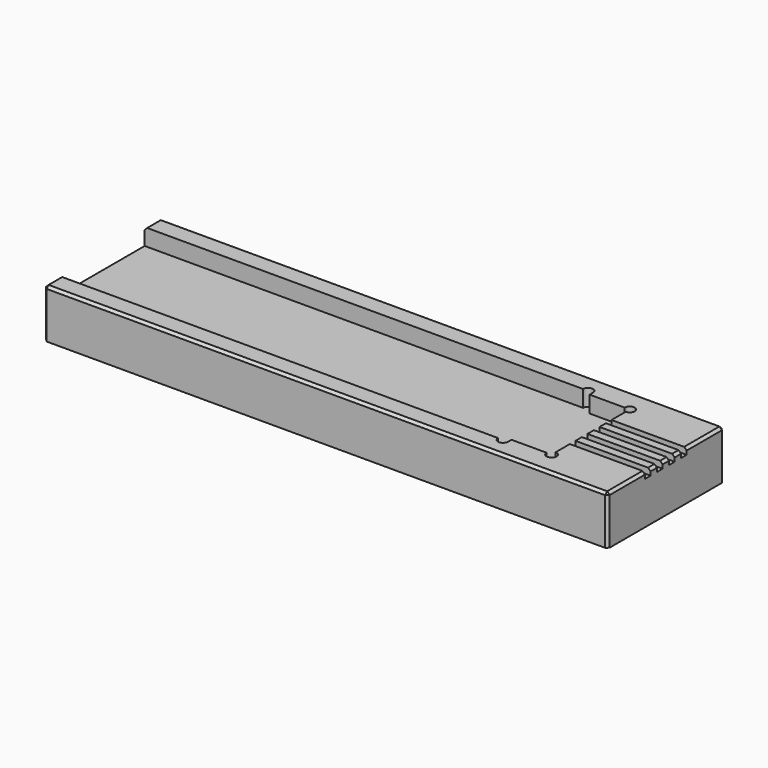
from build123d import *

# Parameters (mm, degrees)
F0_W     = 15
F0_H     = 1.4
F0_H_2   = 1.6
F1_DEPTH = 9.75
F2_SIZE  = 0.5
F3_DEPTH = 3.32
F4_DEPTH = 1.25


with BuildPart() as f1:
    # F0 (on Top) → F1 (new body)
    with BuildSketch(Plane.XY):
        with Locations((62.019782, 3.047612)):
            Rectangle(F0_W, F0_H)
        with Locations((62.019782, 6.047612)):
            Rectangle(F0_W, F0_H)
        with Locations((62.019782, 0.047612)):
            Rectangle(F0_W, F0_H)
        with Locations((62.019782, 9.047612)):
            Rectangle(F0_W, F0_H)
        with Locations((62.019782, 4.547612)):
            Rectangle(F0_W, F0_H_2)
        with Locations((62.019782, 1.547612)):
            Rectangle(F0_W, F0_H_2)
        with Locations((62.019782, 7.547612)):
            Rectangle(F0_W, F0_H_2)
        with BuildLine():
            Line((44.519782, 15.147612), (-42.980218, 15.147612))
            Line((-42.980218, 15.147612), (-42.980218, -6.052388))
            Line((-42.980218, -6.052388), (44.519782, -6.052388))
            Line((44.519782, -6.052388), (46.519782, -6.052388))
            Line((46.519782, -6.052388), (46.519782, -5.202388))
            Line((46.519782, -5.202388), (53.519782, -5.202388))
            ThreePointArc((53.519782, -5.202388), (53.812675, -4.495281), (54.519782, -4.202388))
            Line((54.519782, -4.202388), (54.519782, -0.652388))
            Line((54.519782, -0.652388), (54.519782, 0.747612))
            Line((54.519782, 0.747612), (54.519782, 2.347612))
            Line((54.519782, 2.347612), (54.519782, 3.747612))
            Line((54.519782, 3.747612), (54.519782, 5.347612))
            Line((54.519782, 5.347612), (54.519782, 6.747612))
            Line((54.519782, 6.747612), (54.519782, 8.347612))
            Line((54.519782, 8.347612), (54.519782, 9.747612))
            Line((54.519782, 9.747612), (54.519782, 13.297612))
            ThreePointArc((54.519782, 13.297612), (53.812675, 13.590505), (53.519782, 14.297612))
            Line((53.519782, 14.297612), (46.519782, 14.297612))
            Line((46.519782, 14.297612), (46.519782, 15.147612))
            Line((46.519782, 15.147612), (44.519782, 15.147612))
        make_face()
        with BuildLine():
            Line((46.519782, -6.052388), (44.519782, -6.052388))
            ThreePointArc((44.519782, -6.052388), (45.519782, -7.052388), (46.519782, -6.052388))
        make_face()
        with BuildLine():
            ThreePointArc((46.519782, 15.147612), (45.519782, 16.147612), (44.519782, 15.147612))
            Line((44.519782, 15.147612), (46.519782, 15.147612))
        make_face()
        with BuildLine():
            Line((69.519782, 19.047612), (-42.980218, 19.047612))
            Line((-42.980218, 19.047612), (-42.980218, 15.147612))
            Line((-42.980218, 15.147612), (44.519782, 15.147612))
            ThreePointArc((44.519782, 15.147612), (45.519782, 16.147612), (46.519782, 15.147612))
            Line((46.519782, 15.147612), (46.519782, 14.297612))
            Line((46.519782, 14.297612), (53.519782, 14.297612))
            ThreePointArc((53.519782, 14.297612), (54.519782, 15.297612), (55.519782, 14.297612))
            ThreePointArc((55.519782, 14.297612), (55.226889, 13.590505), (54.519782, 13.297612))
            Line((54.519782, 13.297612), (54.519782, 9.747612))
            Line((54.519782, 9.747612), (69.519782, 9.747612))
            Line((69.519782, 9.747612), (69.519782, 19.047612))
        make_face()
        with BuildLine():
            Line((44.519782, -6.052388), (-42.980218, -6.052388))
            Line((-42.980218, -6.052388), (-42.980218, -9.952388))
            Line((-42.980218, -9.952388), (69.519782, -9.952388))
            Line((69.519782, -9.952388), (69.519782, -0.652388))
            Line((69.519782, -0.652388), (54.519782, -0.652388))
            Line((54.519782, -0.652388), (54.519782, -4.202388))
            ThreePointArc((54.519782, -4.202388), (55.226889, -4.495281), (55.519782, -5.202388))
            ThreePointArc((55.519782, -5.202388), (54.519782, -6.202388), (53.519782, -5.202388))
            Line((53.519782, -5.202388), (46.519782, -5.202388))
            Line((46.519782, -5.202388), (46.519782, -6.052388))
            ThreePointArc((46.519782, -6.052388), (45.519782, -7.052388), (44.519782, -6.052388))
        make_face()
        with BuildLine():
            Line((54.519782, -5.202388), (53.519782, -5.202388))
            ThreePointArc((53.519782, -5.202388), (54.519782, -6.202388), (55.519782, -5.202388))
            ThreePointArc((55.519782, -5.202388), (55.226889, -4.495281), (54.519782, -4.202388))
            Line((54.519782, -4.202388), (54.519782, -5.202388))
        make_face()
        with BuildLine():
            ThreePointArc((54.519782, -4.202388), (53.812675, -4.495281), (53.519782, -5.202388))
            Line((53.519782, -5.202388), (54.519782, -5.202388))
            Line((54.519782, -5.202388), (54.519782, -4.202388))
        make_face()
        with BuildLine():
            Line((54.519782, 14.297612), (54.519782, 13.297612))
            ThreePointArc((54.519782, 13.297612), (55.226889, 13.590505), (55.519782, 14.297612))
            ThreePointArc((55.519782, 14.297612), (54.519782, 15.297612), (53.519782, 14.297612))
            Line((53.519782, 14.297612), (54.519782, 14.297612))
        make_face()
        with BuildLine():
            ThreePointArc((53.519782, 14.297612), (53.812675, 13.590505), (54.519782, 13.297612))
            Line((54.519782, 13.297612), (54.519782, 14.297612))
            Line((54.519782, 14.297612), (53.519782, 14.297612))
        make_face()
    extrude(amount=-F1_DEPTH)

    # F2
    f2_edges = [f1.edges().sort_by_distance(p)[0] for p in [
        (13.269782, 19.047612, 0),
        (-42.980218, 4.547612, 0),
        (13.269782, -9.952388, 0),
        (69.519782, 4.547612, 0),
        (-42.980218, 19.047612, -4.875),
        (-42.980218, -9.952388, -4.875),
        (69.519782, 19.047612, -4.875),
        (69.519782, -9.952388, -4.875),
    ]]
    chamfer(f2_edges, length=F2_SIZE)

    # F0 (on Top) → F3 (cut)
    with BuildSketch(Plane.XY):
        with BuildLine():
            Line((44.519782, 15.147612), (-42.980218, 15.147612))
            Line((-42.980218, 15.147612), (-42.980218, -6.052388))
            Line((-42.980218, -6.052388), (44.519782, -6.052388))
            Line((44.519782, -6.052388), (46.519782, -6.052388))
            Line((46.519782, -6.052388), (46.519782, -5.202388))
            Line((46.519782, -5.202388), (53.519782, -5.202388))
            ThreePointArc((53.519782, -5.202388), (53.812675, -4.495281), (54.519782, -4.202388))
            Line((54.519782, -4.202388), (54.519782, -0.652388))
            Line((54.519782, -0.652388), (54.519782, 0.747612))
            Line((54.519782, 0.747612), (54.519782, 2.347612))
            Line((54.519782, 2.347612), (54.519782, 3.747612))
            Line((54.519782, 3.747612), (54.519782, 5.347612))
            Line((54.519782, 5.347612), (54.519782, 6.747612))
            Line((54.519782, 6.747612), (54.519782, 8.347612))
            Line((54.519782, 8.347612), (54.519782, 9.747612))
            Line((54.519782, 9.747612), (54.519782, 13.297612))
            ThreePointArc((54.519782, 13.297612), (53.812675, 13.590505), (53.519782, 14.297612))
            Line((53.519782, 14.297612), (46.519782, 14.297612))
            Line((46.519782, 14.297612), (46.519782, 15.147612))
            Line((46.519782, 15.147612), (44.519782, 15.147612))
        make_face()
        with BuildLine():
            Line((46.519782, -6.052388), (44.519782, -6.052388))
            ThreePointArc((44.519782, -6.052388), (45.519782, -7.052388), (46.519782, -6.052388))
        make_face()
        with BuildLine():
            ThreePointArc((54.519782, -4.202388), (53.812675, -4.495281), (53.519782, -5.202388))
            Line((53.519782, -5.202388), (54.519782, -5.202388))
            Line((54.519782, -5.202388), (54.519782, -4.202388))
        make_face()
        with BuildLine():
            Line((54.519782, -5.202388), (53.519782, -5.202388))
            ThreePointArc((53.519782, -5.202388), (54.519782, -6.202388), (55.519782, -5.202388))
            ThreePointArc((55.519782, -5.202388), (55.226889, -4.495281), (54.519782, -4.202388))
            Line((54.519782, -4.202388), (54.519782, -5.202388))
        make_face()
        with BuildLine():
            ThreePointArc((53.519782, 14.297612), (53.812675, 13.590505), (54.519782, 13.297612))
            Line((54.519782, 13.297612), (54.519782, 14.297612))
            Line((54.519782, 14.297612), (53.519782, 14.297612))
        make_face()
        with BuildLine():
            Line((54.519782, 14.297612), (54.519782, 13.297612))
            ThreePointArc((54.519782, 13.297612), (55.226889, 13.590505), (55.519782, 14.297612))
            ThreePointArc((55.519782, 14.297612), (54.519782, 15.297612), (53.519782, 14.297612))
            Line((53.519782, 14.297612), (54.519782, 14.297612))
        make_face()
        with BuildLine():
            ThreePointArc((46.519782, 15.147612), (45.519782, 16.147612), (44.519782, 15.147612))
            Line((44.519782, 15.147612), (46.519782, 15.147612))
        make_face()
    extrude(amount=-F3_DEPTH, mode=Mode.SUBTRACT)

    # F0 (on Top) → F4 (cut)
    with BuildSketch(Plane.XY):
        with Locations((62.019782, 9.047612)):
            Rectangle(F0_W, F0_H)
        with Locations((62.019782, 6.047612)):
            Rectangle(F0_W, F0_H)
        with Locations((62.019782, 3.047612)):
            Rectangle(F0_W, F0_H)
        with Locations((62.019782, 0.047612)):
            Rectangle(F0_W, F0_H)
    extrude(amount=-F4_DEPTH, mode=Mode.SUBTRACT)


solid = f1.part
